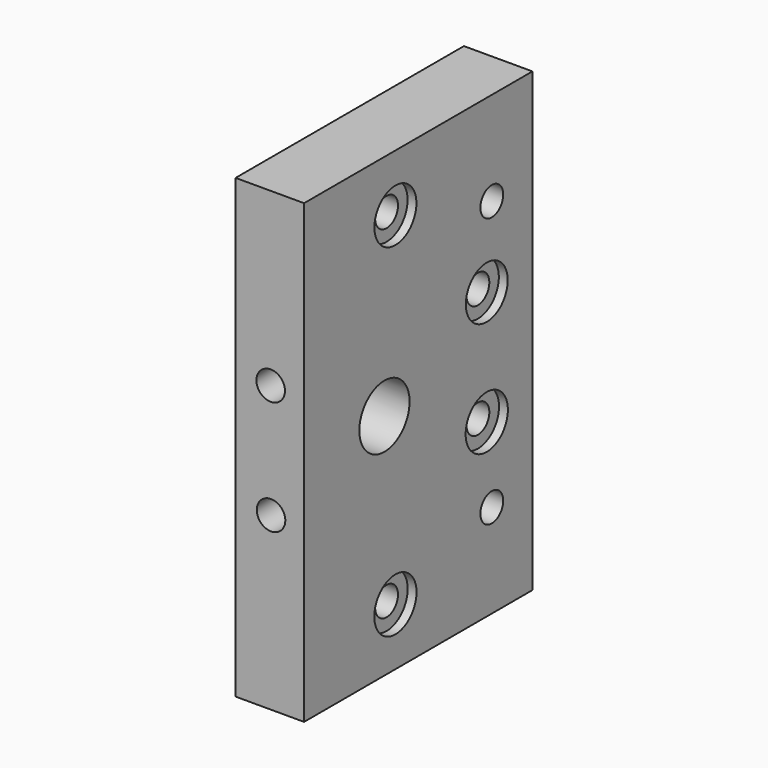
from build123d import *

# Parameters (mm, degrees)
SKETCH014_W     = 80
SKETCH014_H     = 50
SKETCH014_R     = 2.5
SKETCH014_R_2   = 5.5
PAD003_DEPTH    = 12
SKETCH015_R     = 2.5
POCKET009_DEPTH = 11
SKETCH016_R     = 8.05
POCKET010_DEPTH = 4.5
SKETCH017_R     = 4.6
SKETCH017_R_2   = 4.624594
SKETCH017_R_3   = 4.583454
SKETCH017_R_4   = 4.624604
POCKET011_DEPTH = 1.55


with BuildPart() as part:
    # Sketch014 → Pad003 (new body)
    with BuildSketch(Plane(origin=(182, -50, 160), x_dir=(0, 0, -1), z_dir=(-1, 0, 0))):
        with Locations((40, 25)):
            Rectangle(SKETCH014_W, SKETCH014_H)
        with Locations((10, 30)):
            Circle(SKETCH014_R, mode=Mode.SUBTRACT)
        with Locations((30, 10)):
            Circle(SKETCH014_R, mode=Mode.SUBTRACT)
        with Locations((16.4, 8.9)):
            Circle(SKETCH014_R, mode=Mode.SUBTRACT)
        with Locations((50, 10)):
            Circle(SKETCH014_R, mode=Mode.SUBTRACT)
        with Locations((63.6, 8.9)):
            Circle(SKETCH014_R, mode=Mode.SUBTRACT)
        with Locations((70, 30)):
            Circle(SKETCH014_R, mode=Mode.SUBTRACT)
        with Locations((40, 32.4)):
            Circle(SKETCH014_R_2, mode=Mode.SUBTRACT)
    extrude(amount=PAD003_DEPTH)

    # Sketch015 → Pocket009 (cut)
    with BuildSketch(Plane(origin=(182, -100, 160), x_dir=(0, 0, 1), z_dir=(0, -1, 0))):
        with Locations((-30.033846, 5.850095)):
            Circle(SKETCH015_R)
        with Locations((-50.003807, 5.788844)):
            Circle(SKETCH015_R)
    extrude(amount=-POCKET009_DEPTH, mode=Mode.SUBTRACT)

    # Sketch016 → Pocket010 (cut)
    with BuildSketch(Plane(origin=(170, -50, 160), x_dir=(0, 0, -1), z_dir=(-1, 0, 0))):
        with Locations((40, 32.4)):
            Circle(SKETCH016_R)
    extrude(amount=-POCKET010_DEPTH, mode=Mode.SUBTRACT)

    # Sketch017 → Pocket011 (cut)
    with BuildSketch(Plane(origin=(182, -50, 160), x_dir=(0, 0, -1), z_dir=(1, 0, 0))):
        with Locations((10, -30)):
            Circle(SKETCH017_R)
        with Locations((70, -30)):
            Circle(SKETCH017_R_2)
        with Locations((30, -10)):
            Circle(SKETCH017_R_3)
        with Locations((50, -10)):
            Circle(SKETCH017_R_4)
    extrude(amount=-POCKET011_DEPTH, mode=Mode.SUBTRACT)


solid = part.part
